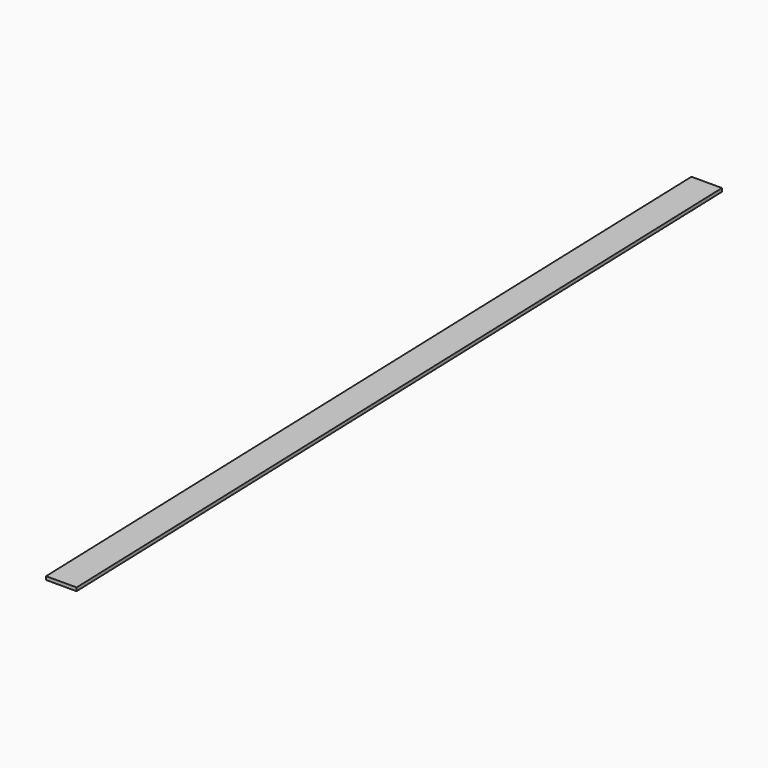
from build123d import *

# Parameters (mm, degrees)
F1_DEPTH = 6.35
F3_DEPTH = 50.8


with BuildPart() as f1:
    # F0 (on Right) → F1 (new body)
    with BuildSketch(Plane.YZ):
        Polygon((-748.298248, -6.35), (763.001752, -6.35), (763.001752, 44.45), (-748.298248, 0), align=None)
    extrude(amount=F1_DEPTH)

    # F2 (on face) → F3 (join)
    with BuildSketch(Plane.YZ.offset(6.35)):
        Polygon((-748.298248, -6.35), (763.001752, 38.1), (763.001752, 44.45), (-748.298248, 0), align=None)
    extrude(amount=F3_DEPTH)


solid = f1.part
